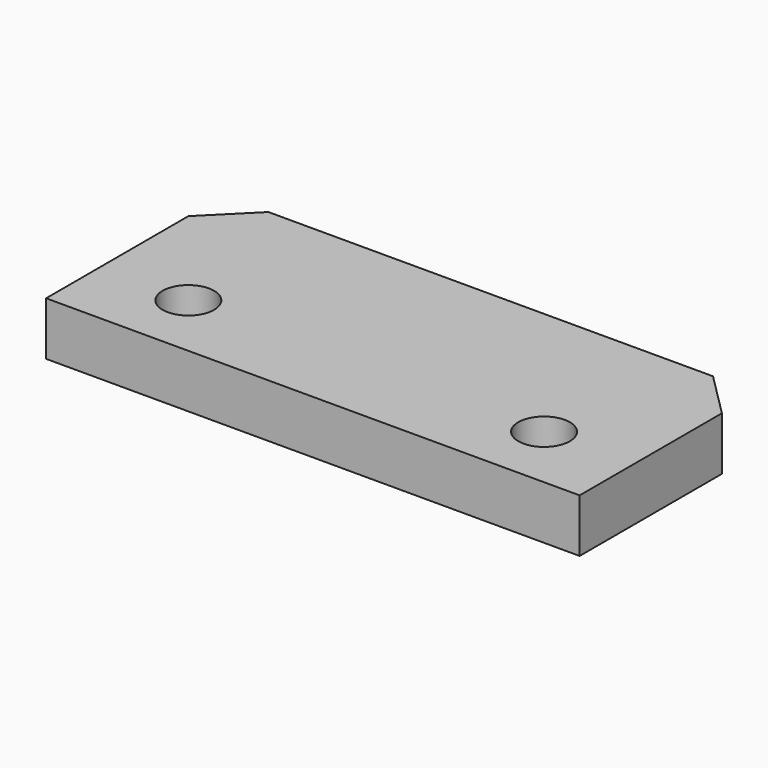
from build123d import *

# Parameters (mm, degrees)
F0_W     = 60
F0_H     = 25
F1_DEPTH = 6
F3_D     = 5.8
F4_SIZE  = 5


with BuildPart() as f1:
    # F0 (on Top) → F1 (new body)
    with BuildSketch(Plane.XY):
        with Locations((30, 12.5)):
            Rectangle(F0_W, F0_H)
    extrude(amount=F1_DEPTH)

    # F3 (through all)
    with Locations(Plane.XY.offset(6)):
        with Locations((50, 7.5), (10, 7.5)):
            Hole(F3_D / 2)

    # F4
    f4_edges = [f1.edges().sort_by_distance(p)[0] for p in [
        (60, 25, 3),
        (0, 25, 3),
    ]]
    chamfer(f4_edges, length=F4_SIZE)


solid = f1.part
